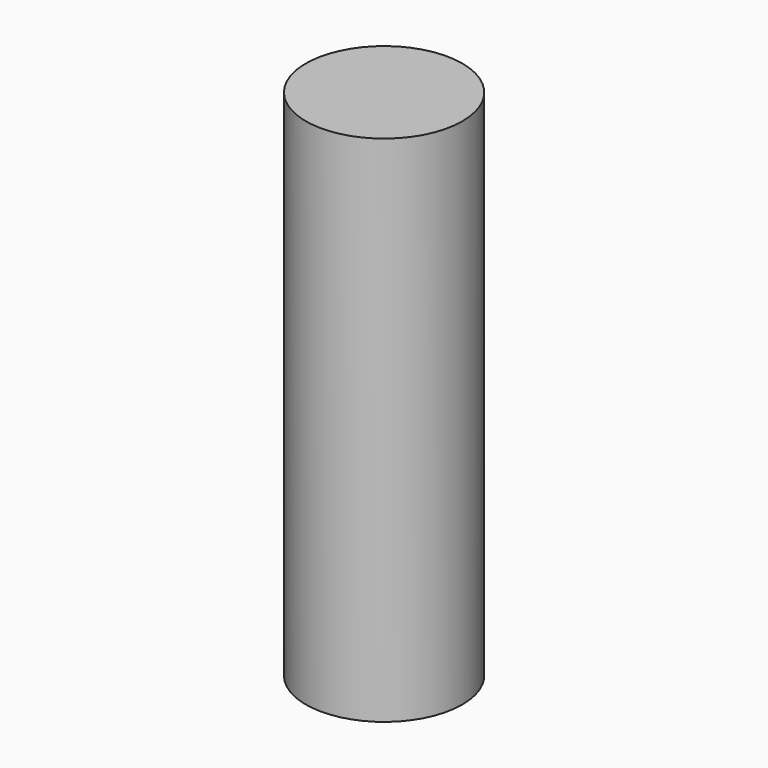
from build123d import *

# Parameters (mm, degrees)
CYLINDER_R     = 2.286
CYLINDER_DEPTH = 15


with BuildPart() as part:
    # Cylinder → Cylinder (new body)
    with BuildSketch(Plane.XY.offset(-2.5)):
        Circle(CYLINDER_R)
    extrude(amount=CYLINDER_DEPTH)


solid = part.part
